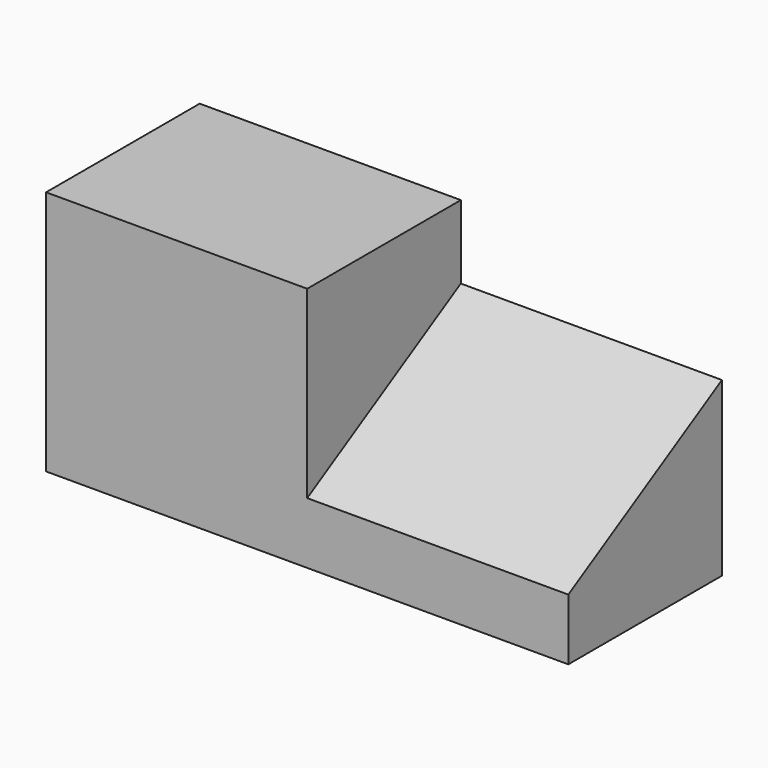
from build123d import *

# Parameters (mm, degrees)
F1_DEPTH = 34
F2_DEPTH = 34


with BuildPart() as f1:
    # F0 (on Right) → F1 (new body)
    with BuildSketch(Plane.YZ):
        Polygon((0, 8), (0, 0), (25, 0), (25, 22.433757), align=None)
        Polygon((0, 32), (0, 8), (25, 22.433757), (25, 32), align=None)
    extrude(amount=-F1_DEPTH)

    # F0 (on Right) → F2 (join)
    with BuildSketch(Plane.YZ):
        Polygon((0, 8), (0, 0), (25, 0), (25, 22.433757), align=None)
    extrude(amount=F2_DEPTH)


solid = f1.part
